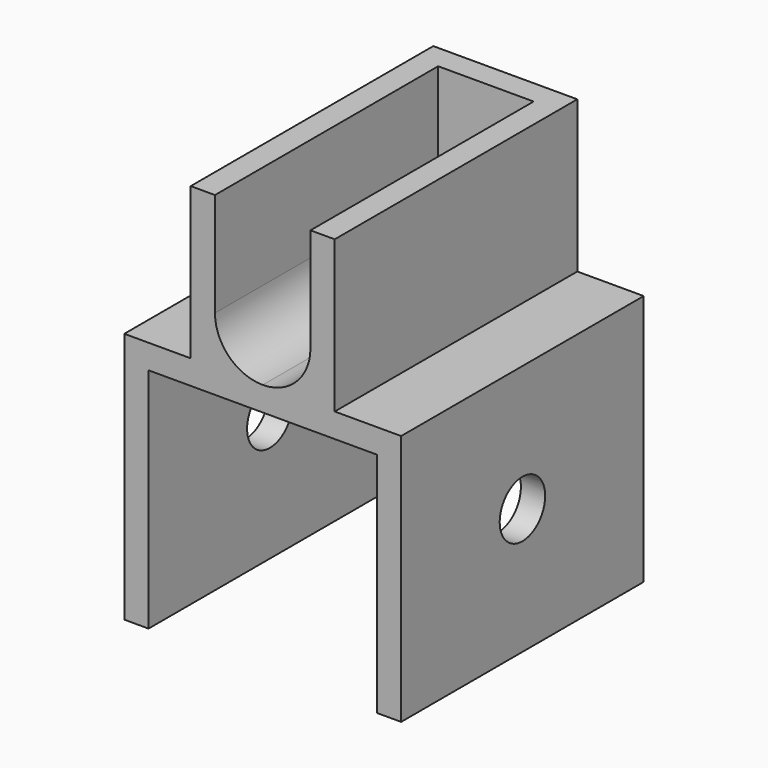
from build123d import *

# Parameters (mm, degrees)
F1_DEPTH = 25.4
F0_W     = 8
F0_H     = 8.7
F2_DEPTH = 2.032
F4_D     = 4.7625


with BuildPart() as f1:
    # F0 (on Front) → F1 (new body)
    with BuildSketch(Plane.XZ):
        Polygon((0, 21.082), (0, 0), (2.032, 0), (2.032, 19.05), (21.1582, 19.05), (21.1582, 0), (23.1902, 0), (23.1902, 21.082), (17.6271, 21.082), (11.5951, 21.082), (5.5631, 21.082), align=None)
        with BuildLine():
            ThreePointArc((15.5951, 25.082), (14.423527, 22.253573), (11.5951, 21.082))
            Line((11.5951, 21.082), (17.6271, 21.082))
            Line((17.6271, 21.082), (17.6271, 33.782))
            Line((17.6271, 33.782), (15.5951, 33.782))
            Line((15.5951, 33.782), (15.5951, 25.082))
        make_face()
        with BuildLine():
            Line((5.5631, 33.782), (5.5631, 21.082))
            Line((5.5631, 21.082), (11.5951, 21.082))
            ThreePointArc((11.5951, 21.082), (8.766673, 22.253573), (7.5951, 25.082))
            Line((7.5951, 25.082), (7.5951, 33.782))
            Line((7.5951, 33.782), (5.5631, 33.782))
        make_face()
    extrude(amount=F1_DEPTH)

    # F0 (on Front) → F2 (join)
    with BuildSketch(Plane.XZ):
        with BuildLine():
            ThreePointArc((7.5951, 25.082), (8.766673, 22.253573), (11.5951, 21.082))
            ThreePointArc((11.5951, 21.082), (14.423527, 22.253573), (15.5951, 25.082))
            Line((15.5951, 25.082), (7.5951, 25.082))
        make_face()
        with Locations((11.5951, 29.432)):
            Rectangle(F0_W, F0_H)
    extrude(amount=F2_DEPTH)

    # F4 (through all)
    with Locations(Plane.YZ.offset(23.1902)):
        with Locations((-12.7, 10.541)):
            Hole(F4_D / 2)


solid = f1.part
